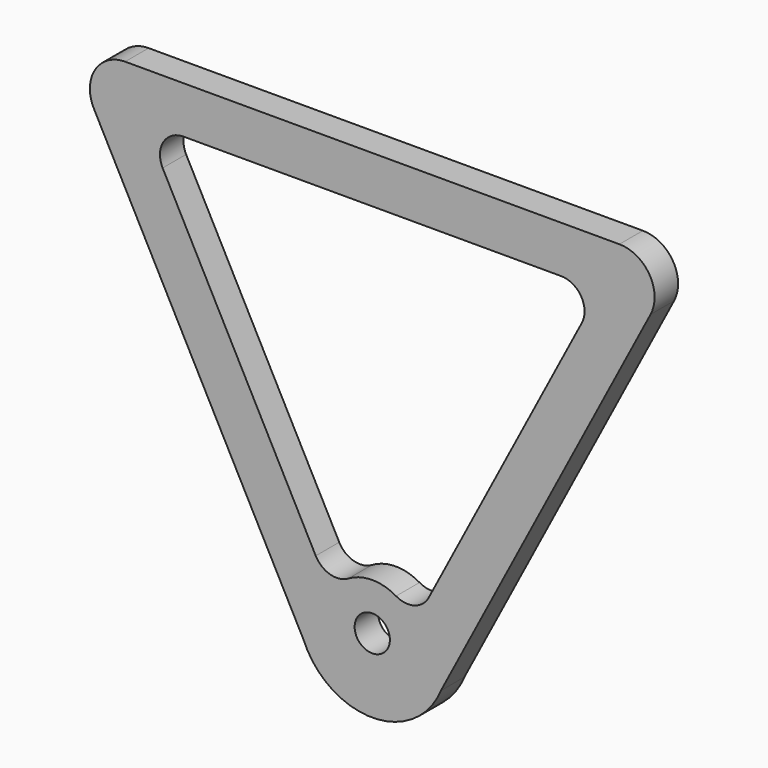
from build123d import *

# Parameters (mm, degrees)
F0_R     = 3
F1_DEPTH = 5


with BuildPart() as f1:
    # F0 (on Front) → F1 (new body)
    with BuildSketch(Plane.XZ):
        with BuildLine():
            Line((42.073386, 42.901178), (-42.073386, 42.901178))
            ThreePointArc((-42.073386, 42.901178), (-47.208268, 40.004884), (-47.385773, 34.112174))
            Line((-47.385773, 34.112174), (-11.685773, -33.887826))
            ThreePointArc((-11.685773, -33.887826), (0, -41.72783), (11.685773, -33.887826))
            Line((11.685773, -33.887826), (47.385773, 34.112174))
            ThreePointArc((47.385773, 34.112174), (47.208268, 40.004884), (42.073386, 42.901178))
        make_face()
        with Locations((0, -29.098822)):
            Circle(F0_R, mode=Mode.SUBTRACT)
        with BuildLine():
            Line((-9.620267, -20.611675), (-35.688363, 29.041842))
            ThreePointArc((-35.688363, 29.041842), (-35.570026, 32.970315), (-32.146772, 34.901178))
            Line((-32.146772, 34.901178), (32.146772, 34.901178))
            ThreePointArc((32.146772, 34.901178), (35.570026, 32.970315), (35.688363, 29.041842))
            Line((35.688363, 29.041842), (9.620267, -20.611675))
            ThreePointArc((9.620267, -20.611675), (7.176721, -22.598675), (4.05245, -22.201167))
            ThreePointArc((4.05245, -22.201167), (0, -21.098822), (-4.05245, -22.201167))
            ThreePointArc((-4.05245, -22.201167), (-7.176721, -22.598675), (-9.620267, -20.611675))
        make_face(mode=Mode.SUBTRACT)
    extrude(amount=F1_DEPTH)


solid = f1.part
